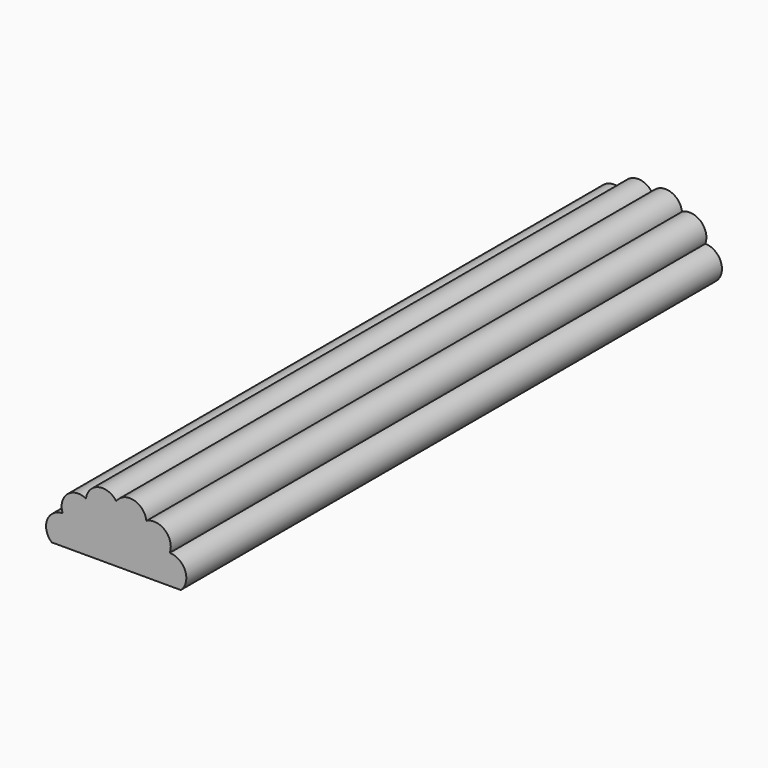
from build123d import *

# Parameters (mm, degrees)
F1_DEPTH = 60.75
F2_W     = 29.965812
F2_H     = 12.152278
F3_DEPTH = 80


with BuildPart() as f1:
    # F0 (on Front) → F1 (new body)
    with BuildSketch(Plane.XZ):
        with BuildLine():
            ThreePointArc((4.855605, 2.640416), (4.442922, 4.303856), (2.741867, 4.513024))
            ThreePointArc((2.741867, 4.513024), (1.603415, 5.794144), (0, 5.188834))
            ThreePointArc((0, 5.188834), (-1.603415, 5.794144), (-2.741867, 4.513024))
            ThreePointArc((-2.741867, 4.513024), (-4.442922, 4.303856), (-4.855605, 2.640416))
            ThreePointArc((-4.855605, 2.640416), (-6.264609, 1.664686), (-5.856982, 0))
            ThreePointArc((-5.856982, 0), (-6.651149, -1.518762), (-5.516596, -2.803335))
            ThreePointArc((-5.516596, -2.803335), (-5.513992, -4.5172), (-3.912424, -5.12738))
            ThreePointArc((-3.912424, -5.12738), (-3.113645, -6.643722), (-1.411962, -6.439723))
            ThreePointArc((-1.411962, -6.439723), (0, -7.411166), (1.411962, -6.439723))
            ThreePointArc((1.411962, -6.439723), (3.113645, -6.643722), (3.912424, -5.12738))
            ThreePointArc((3.912424, -5.12738), (5.513992, -4.5172), (5.516596, -2.803335))
            ThreePointArc((5.516596, -2.803335), (6.651149, -1.518762), (5.856982, 0))
            ThreePointArc((5.856982, 0), (6.264609, 1.664686), (4.855605, 2.640416))
        make_face()
    extrude(amount=F1_DEPTH)

    # F2 (on Front) → F3 (cut)
    with BuildSketch(Plane.XZ):
        with Locations((-0.254262, -6.076139)):
            Rectangle(F2_W, F2_H)
    extrude(amount=F3_DEPTH, mode=Mode.SUBTRACT)


solid = f1.part
